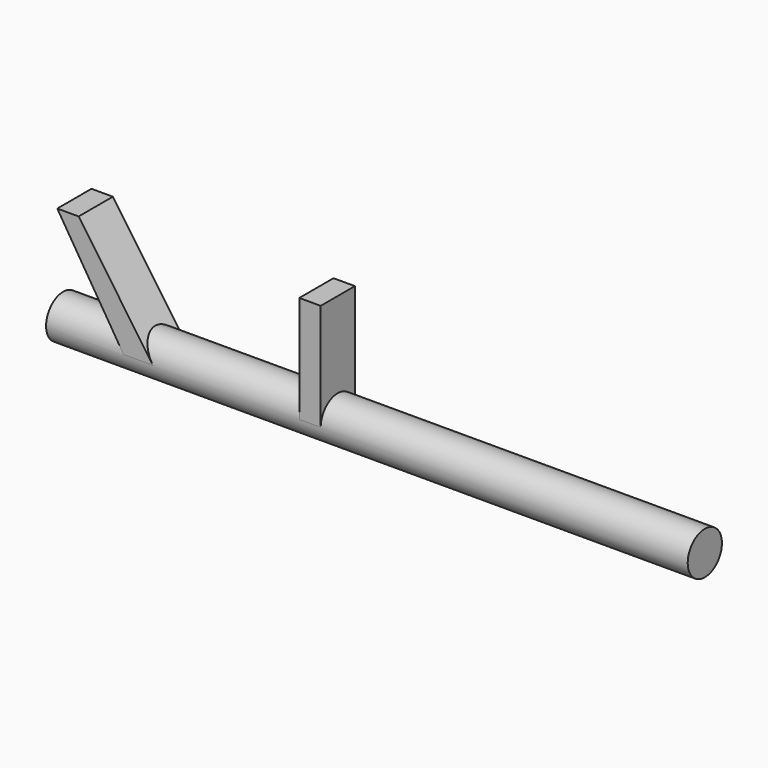
from build123d import *

# Parameters (mm, degrees)
F2_DEPTH = 2.54
F1_W     = 2.54
F1_H     = 12.7
F0_W     = 63.5
F0_H     = 2.54
F0_W_2   = 12.7


with BuildPart() as f2:
    # F1 (on Front) → F2 (new body, symmetric)
    with BuildSketch(Plane.XZ):
        Polygon((-3.4942510538, 0), (0, 0), (-8.8303433731, 12.7), (-11.3703433731, 12.7), align=None)
    extrude(amount=F2_DEPTH, both=True)



with BuildPart() as f2b:
    # F1 (on Front) → F2, piece 2 (new body, symmetric)
    with BuildSketch(Plane.XZ):
        with Locations((18.6417625439, 6.35)):
            Rectangle(F1_W, F1_H)
    extrude(amount=F2_DEPTH, both=True)


with BuildPart() as f2_1:
    add(f2.part)

    add(f2b.part)  # F3 merges F2b
    # F0 (on Front) → F3 (revolve)
    with BuildSketch(Plane.XZ):
        with Locations((31.75, 1.27)):
            Rectangle(F0_W, F0_H)
        with Locations((-6.35, 1.27)):
            Rectangle(F0_W_2, F0_H)
    revolve(axis=Axis((31.75, 0, 0), (1, 0, 0)))


solid = f2_1.part
